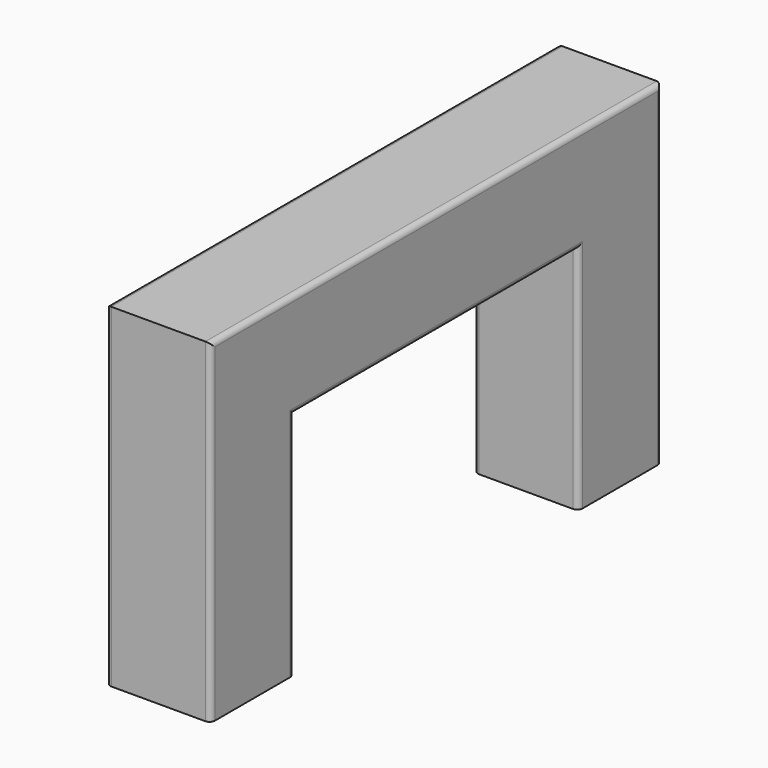
from build123d import *

# Parameters (mm, degrees)
F1_DEPTH = 100
F2_R     = 5


with BuildPart() as f1:
    # F0 (on Right) → F1 (new body)
    with BuildSketch(Plane.YZ):
        Polygon((0, 220), (0, 0), (100, 0), (100, 320), (-440, 320), (-440, 0), (-340, 0), (-340, 220), align=None)
    extrude(amount=F1_DEPTH)

    # F2
    f2_edges = [f1.edges().sort_by_distance(p)[0] for p in [
        (100, -440, 160),
        (100, -340, 110),
        (100, -170, 220),
        (100, 0, 110),
        (100, 100, 160),
        (0, -440, 160),
        (0, 0, 110),
        (0, -170, 220),
        (0, -340, 110),
        (0, 100, 160),
        (0, -170, 320),
        (100, -170, 320),
    ]]
    fillet(f2_edges, radius=F2_R)


solid = f1.part
